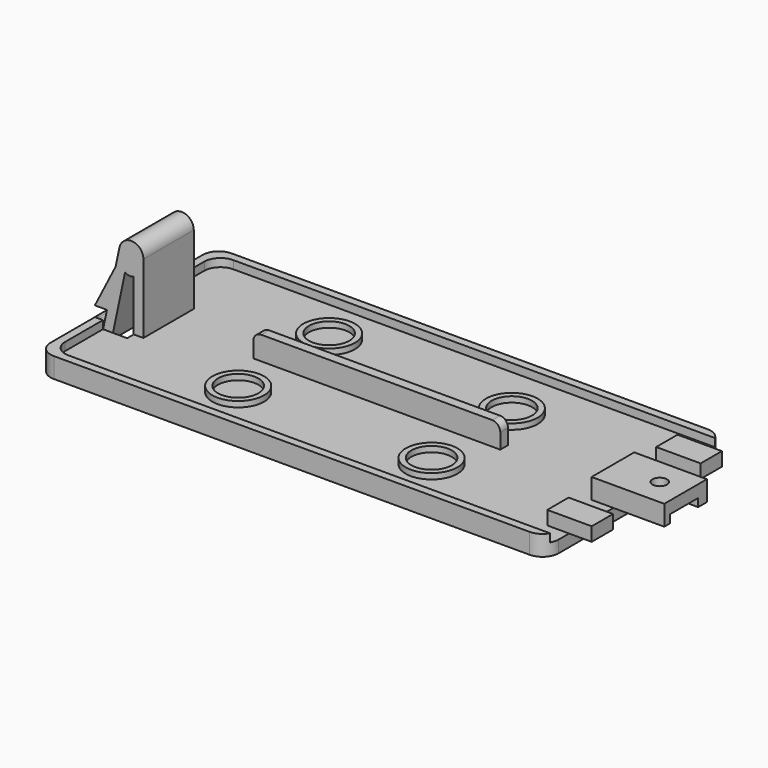
from build123d import *

# Parameters (mm, degrees)
SKETCH_W        = 62.95
SKETCH_H        = 27.55
PAD_DEPTH       = 2.5
SKETCH001_W     = 60.95
SKETCH001_H     = 25.55
POCKET_DEPTH    = 1
SKETCH002_W     = 8.33494
SKETCH002_H     = 9.82
POCKET001_DEPTH = 5
SKETCH003_W     = 25.55
SKETCH003_H     = 4.198582
POCKET002_DEPTH = 5
SKETCH004_W     = 5.5
SKETCH004_H     = 3.3
SKETCH004_W_2   = 9
SKETCH004_H_2   = 6.6
PAD001_DEPTH    = 1.7
SKETCH005_W     = 9
SKETCH005_H     = 6.6
PAD002_DEPTH    = 1.5
SKETCH006_W     = 11.41477
SKETCH006_H     = 4.37
POCKET003_DEPTH = 1
SKETCH007_R     = 0.9
POCKET004_DEPTH = 5
FILLET_R        = 2
FILLET001_R     = 2
SKETCH008_W     = 30.6
SKETCH008_H     = 1.2
PAD003_DEPTH    = 2.9
FILLET002_R     = 1
SKETCH009_R     = 3.2
SKETCH009_R_2   = 2.5
PAD004_DEPTH    = 1.2
SKETCH010_W     = 1.2
SKETCH010_H     = 9.82
PAD005_DEPTH    = 8.6
PAD006_DEPTH    = 9.8
SKETCH012_W     = 1.01
SKETCH012_H     = 12.1592368492
POCKET005_DEPTH = 5
SKETCH013_W     = 1.919350973
SKETCH013_H     = 0.99
SKETCH013_W_2   = 2.016565973
SKETCH013_H_2   = 1.01
POCKET006_DEPTH = 5
SKETCH014_W     = 3.22658
SKETCH014_H     = 1.4
PAD007_DEPTH    = 7.8
FILLET003_R     = 1
FILLET004_R     = 1
PAD008_DEPTH    = 7.8
SKETCH016_W     = 5.3
SKETCH016_H     = 6.908861
POCKET007_DEPTH = 5
SKETCH017_W     = 7.346396
SKETCH017_H     = 1.27086
POCKET008_DEPTH = 12
FILLET005_R     = 2
FILLET006_R     = 2
SKETCH018_W     = 8.422166
SKETCH018_H     = 10.199767
POCKET009_DEPTH = 31
SKETCH019_R     = 1.5
PAD009_DEPTH    = 7.8
SKETCH020_W     = 10.078106
SKETCH020_H     = 1.351365
POCKET010_DEPTH = 17.076
SKETCH021_R     = 0.9644956182
PAD010_DEPTH    = 7.8


with BuildPart() as part:
    # Sketch → Pad (new body)
    with BuildSketch(Plane.XY):
        Rectangle(SKETCH_W, SKETCH_H)
    extrude(amount=PAD_DEPTH)

    # Sketch001 → Pocket (cut)
    with BuildSketch(Plane.XY.offset(2.5)):
        Rectangle(SKETCH001_W, SKETCH001_H)
    extrude(amount=-POCKET_DEPTH, mode=Mode.SUBTRACT)

    # Sketch002 → Pocket001 (cut)
    with BuildSketch(Plane(origin=(0, 0, 0), x_dir=(1, 0, 0), z_dir=(0, 0, -1))):
        with Locations((-31.64247, 0)):
            Rectangle(SKETCH002_W, SKETCH002_H)
    extrude(amount=-POCKET001_DEPTH, mode=Mode.SUBTRACT)

    # Sketch003 → Pocket002 (cut)
    with BuildSketch(Plane(origin=(30.475, 0, 0), x_dir=(0, -1, 0), z_dir=(-1, 0, 0))):
        with Locations((0, 3.599291)):
            Rectangle(SKETCH003_W, SKETCH003_H)
    extrude(amount=-POCKET002_DEPTH, mode=Mode.SUBTRACT)

    # Sketch004 → Pad001 (new body)
    with BuildSketch(Plane.XY.offset(1.5)):
        with Locations((31.525, 8.3558943219)):
            Rectangle(SKETCH004_W, SKETCH004_H)
        with Locations((31.525, -8.5122186382)):
            Rectangle(SKETCH004_W, SKETCH004_H)
        with Locations((33.275, 0)):
            Rectangle(SKETCH004_W_2, SKETCH004_H_2)
    extrude(amount=PAD001_DEPTH)

    # Sketch005 → Pad002 (new body)
    with BuildSketch(Plane.XY.offset(3.2)):
        with Locations((33.275, 0)):
            Rectangle(SKETCH005_W, SKETCH005_H)
    extrude(amount=PAD002_DEPTH)

    # Sketch006 → Pocket003 (cut)
    with BuildSketch(Plane(origin=(0, 0, 1.5), x_dir=(1, 0, 0), z_dir=(0, 0, -1))):
        with Locations((37.182385, 0.2334771648)):
            Rectangle(SKETCH006_W, SKETCH006_H)
    extrude(amount=-POCKET003_DEPTH, mode=Mode.SUBTRACT)

    # Sketch007 → Pocket004 (cut)
    with BuildSketch(Plane.XY.offset(4.7)):
        with Locations((34.575, 0)):
            Circle(SKETCH007_R)
    extrude(amount=-POCKET004_DEPTH, mode=Mode.SUBTRACT)

    # Fillet
    fillet_edges = [part.edges().sort_by_distance(p)[0] for p in [
        (-31.475, 13.775, 1.25),
        (-31.475, -13.775, 1.25),
    ]]
    fillet(fillet_edges, radius=FILLET_R)

    # Fillet001
    fillet001_edges = [part.edges().sort_by_distance(p)[0] for p in [
        (-30.475, 12.775, 2),
        (-30.475, -12.775, 2),
    ]]
    fillet(fillet001_edges, radius=FILLET001_R)

    # Sketch008 → Pad003 (new body)
    with BuildSketch(Plane.XY.offset(1.5)):
        Rectangle(SKETCH008_W, SKETCH008_H)
    extrude(amount=PAD003_DEPTH)

    # Fillet002
    fillet002_edges = [part.edges().sort_by_distance(p)[0] for p in [
        (15.3, 0, 4.4),
        (-15.3, 0, 4.4),
    ]]
    fillet(fillet002_edges, radius=FILLET002_R)

    # Sketch009 → Pad004 (new body)
    with BuildSketch(Plane.XY.offset(1.5)):
        with Locations((-12.019986846, 7.041554)):
            Circle(SKETCH009_R)
        with Locations((-12.019986846, 7.041554)):
            Circle(SKETCH009_R_2, mode=Mode.SUBTRACT)
        with Locations((11.580013154, 5.839929)):
            Circle(SKETCH009_R)
        with Locations((11.580013154, 5.839929)):
            Circle(SKETCH009_R_2, mode=Mode.SUBTRACT)
        with Locations((12.019994, -7.139266)):
            Circle(SKETCH009_R)
        with Locations((12.019994, -7.139266)):
            Circle(SKETCH009_R_2, mode=Mode.SUBTRACT)
        with Locations((-12.019986846, -7.041554)):
            Circle(SKETCH009_R)
        with Locations((-12.019986846, -7.041554)):
            Circle(SKETCH009_R_2, mode=Mode.SUBTRACT)
    extrude(amount=PAD004_DEPTH)

    # Sketch010 → Pad005 (new body)
    with BuildSketch(Plane.XY.offset(1.5)):
        with Locations((-26.875, 0)):
            Rectangle(SKETCH010_W, SKETCH010_H)
    extrude(amount=PAD005_DEPTH)

    # Sketch011 → Pad006 (new body)
    with BuildSketch(Plane.XZ.offset(4.91)):
        with BuildLine():
            ThreePointArc((-26.275, 10.1), (-27.6188640233, 11.5918517208), (-29.242495409, 10.410575634))
            Line((-29.242495409, 10.410575634), (-31.4457534602, 0))
            Line((-30.2191738146, 0), (-31.4457534602, 0))
            Line((-28.0684990822, 10.1621151248), (-30.2191738146, 0))
            ThreePointArc((-27.475, 10.1), (-27.7437728057, 10.3983703443), (-28.0684990822, 10.1621151248))
            Line((-26.275, 10.1), (-27.475, 10.1))
        make_face()
    extrude(amount=-PAD006_DEPTH)

    # Sketch012 → Pocket005 (cut)
    with BuildSketch(Plane.YZ.offset(-26.275)):
        with Locations((-4.405, 7.5796184246)):
            Rectangle(SKETCH012_W, SKETCH012_H)
        with Locations((4.405, 7.5796184246)):
            Rectangle(SKETCH012_W, SKETCH012_H)
    extrude(amount=-POCKET005_DEPTH, mode=Mode.SUBTRACT)

    # Sketch013 → Pocket006 (cut)
    with BuildSketch(Plane.XY.offset(1.5)):
        with Locations((-30.8613945135, 4.395)):
            Rectangle(SKETCH013_W, SKETCH013_H)
        with Locations((-30.9100020135, -4.405)):
            Rectangle(SKETCH013_W_2, SKETCH013_H_2)
    extrude(amount=-POCKET006_DEPTH, mode=Mode.SUBTRACT)

    # Sketch014 → Pad007 (new body)
    with BuildSketch(Plane.XZ.offset(3.9)):
        with Locations((-31.8324638146, 0.7)):
            Rectangle(SKETCH014_W, SKETCH014_H)
    extrude(amount=-PAD007_DEPTH)

    # Fillet003
    fillet003_edges = [part.edges().sort_by_distance(p)[0] for p in [
        (-33.445754, -3.9, 0.7),
        (-33.445754, 3.9, 0.7),
    ]]
    fillet(fillet003_edges, radius=FILLET003_R)

    # Fillet004
    fillet004_edges = [part.edges().sort_by_distance(p)[0] for p in [
        (-33.445754, 0, 1.4),
    ]]
    fillet(fillet004_edges, radius=FILLET004_R)

    # Sketch015 → Pad008 (new body)
    with BuildSketch(Plane.XZ.offset(3.9)):
        Polygon((-30.7896802325, 3.1), (-32.2896802325, 3.1), (-29.7186114617, 8.1608880977), align=None)
    extrude(amount=-PAD008_DEPTH)

    # Sketch016 → Pocket007 (cut)
    with BuildSketch(Plane(origin=(-30.0976779028, 0, 6.3697679641), x_dir=(0, -1, 0), z_dir=(-0.9783302734, 0, 0.2070504194))):
        with Locations((0, -1.0484965)):
            Rectangle(SKETCH016_W, SKETCH016_H)
    extrude(amount=POCKET007_DEPTH, mode=Mode.SUBTRACT)

    # Sketch017 → Pocket008 (cut)
    with BuildSketch(Plane.YZ.offset(37.775)):
        with Locations((0.176766, 5.13543)):
            Rectangle(SKETCH017_W, SKETCH017_H)
    extrude(amount=-POCKET008_DEPTH, mode=Mode.SUBTRACT)

    # Fillet005
    fillet005_edges = [part.edges().sort_by_distance(p)[0] for p in [
        (31.475, 13.775, 1.25),
    ]]
    fillet(fillet005_edges, radius=FILLET005_R)

    # Fillet006
    fillet006_edges = [part.edges().sort_by_distance(p)[0] for p in [
        (31.475, -13.775, 1.25),
    ]]
    fillet(fillet006_edges, radius=FILLET006_R)

    # Sketch018 → Pocket009 (cut)
    with BuildSketch(Plane.YZ.offset(15.3)):
        with Locations((-6.727006, 7.2998835)):
            Rectangle(SKETCH018_W, SKETCH018_H)
        with Locations((6.727006, 7.2998835)):
            Rectangle(SKETCH018_W, SKETCH018_H)
    extrude(amount=-POCKET009_DEPTH, mode=Mode.SUBTRACT)

    # Sketch019 → Pad009 (new body)
    with BuildSketch(Plane.XZ.offset(3.9)):
        with Locations((-27.775, 10.1)):
            Circle(SKETCH019_R)
    extrude(amount=-PAD009_DEPTH)

    # Sketch020 → Pocket010 (cut, through all)
    with BuildSketch(Plane.XZ.offset(3.3)):
        with Locations((33.352842, 4.6756825)):
            Rectangle(SKETCH020_W, SKETCH020_H)
    extrude(amount=-POCKET010_DEPTH, mode=Mode.SUBTRACT)

    # Sketch021 → Pad010 (new body)
    with BuildSketch(Plane.XZ.offset(3.9)):
        with Locations((-27.9238999046, 8.6772876492)):
            Circle(SKETCH021_R)
    extrude(amount=-PAD010_DEPTH)


solid = part.part
